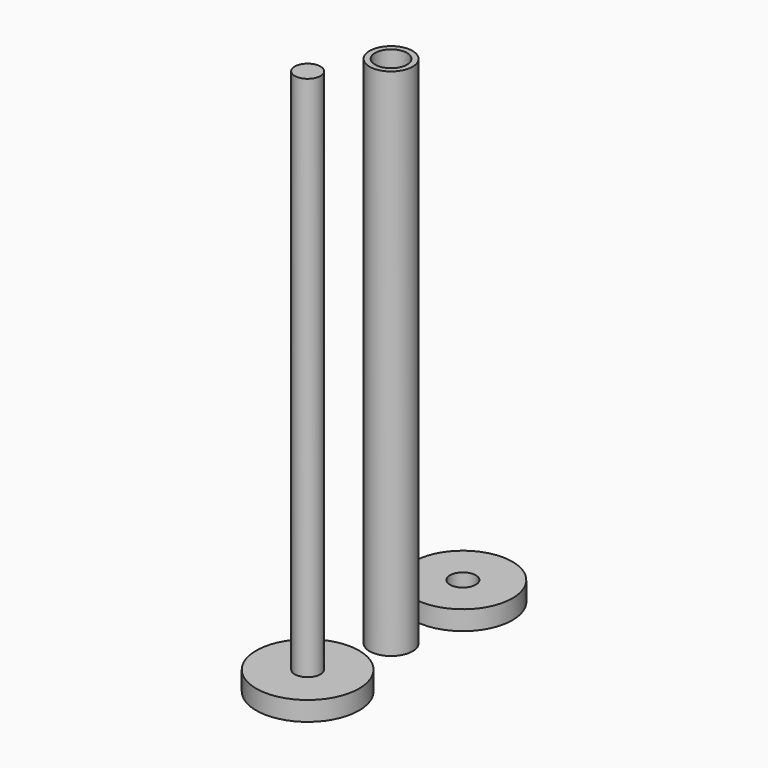
from build123d import *

# Parameters (mm, degrees)
F0_R     = 12.7
F1_DEPTH = 4.7625
F2_R     = 3.175
F3_DEPTH = 130
F4_R     = 12.230137
F5_DEPTH = 4.7625
F6_R     = 3.175
F7_DEPTH = 6.8072
F8_R     = 5.302083
F8_R_2   = 3.937
F9_DEPTH = 127


with BuildPart() as f1:
    # F0 (on Top) → F1 (new body)
    with BuildSketch(Plane.XY):
        Circle(F0_R)
    extrude(amount=F1_DEPTH)

    # F2 (on face) → F3 (join)
    with BuildSketch(Plane.XY.offset(4.7625)):
        Circle(F2_R)
    extrude(amount=F3_DEPTH)


with BuildPart() as f5:
    # F4 (on Top) → F5 (new body)
    with BuildSketch(Plane.XY):
        with Locations((0, 47.894098)):
            Circle(F4_R)
    extrude(amount=F5_DEPTH)

    # F6 (on face) → F7 (cut)
    with BuildSketch(Plane(origin=(0, 0, 0), x_dir=(1, 0, 0), z_dir=(0, 0, -1))):
        with Locations((0, -47.894098)):
            Circle(F6_R)
    extrude(amount=-F7_DEPTH, mode=Mode.SUBTRACT)


with BuildPart() as f9:
    # F8 (on Top) → F9 (new body)
    with BuildSketch(Plane.XY):
        with Locations((0, 25.737481)):
            Circle(F8_R)
        with Locations((0, 25.737481)):
            Circle(F8_R_2, mode=Mode.SUBTRACT)
    extrude(amount=F9_DEPTH)


solid = Compound([f1.part, f5.part, f9.part])
